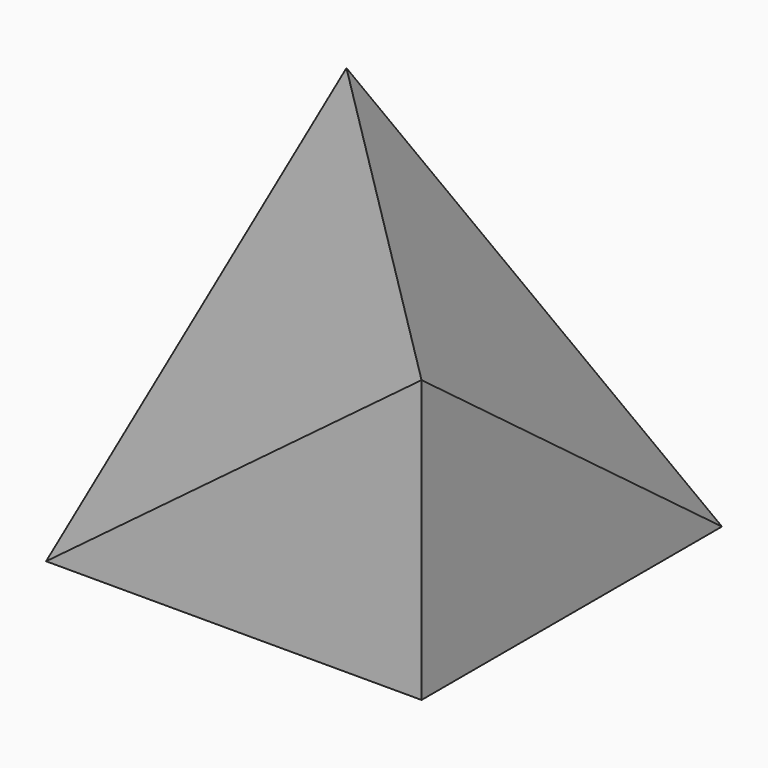
from build123d import *

# Parameters (mm, degrees)
F0_W     = 4
F0_H     = 3
F1_DEPTH = 4
F5_DEPTH = 25
F7_DEPTH = 25


with BuildPart() as f1:
    # F0 (on Front) → F1 (new body)
    with BuildSketch(Plane.XZ):
        with Locations((2, 1.5)):
            Rectangle(F0_W, F0_H)
    extrude(amount=F1_DEPTH)

    # F4 (on 3pt) → F5 (cut)
    with BuildSketch(Plane(origin=(-1.0588235294, -1.0588235294, 1.4117647059), x_dir=(0.8574929257, -0.3086974533, 0.4115966043), z_dir=(-0.5144957554, -0.5144957554, 0.6859943406))):
        Polygon((5.8995513289, -1.4), (1.234789813, 1.8), (1.234789813, -3.2), align=None)
    extrude(amount=F5_DEPTH, mode=Mode.SUBTRACT)

    # F6 (on 3pt) → F7 (cut)
    with BuildSketch(Plane(origin=(1.0588235294, 1.0588235294, 1.4117647059), x_dir=(0.8574929257, -0.3086974533, -0.4115966043), z_dir=(-0.5144957554, -0.5144957554, -0.6859943406))):
        Polygon((3.4299717029, 5), (-1.234789813, 1.8), (3.4299717029, 0), align=None)
    extrude(amount=-F7_DEPTH, mode=Mode.SUBTRACT)


solid = f1.part
